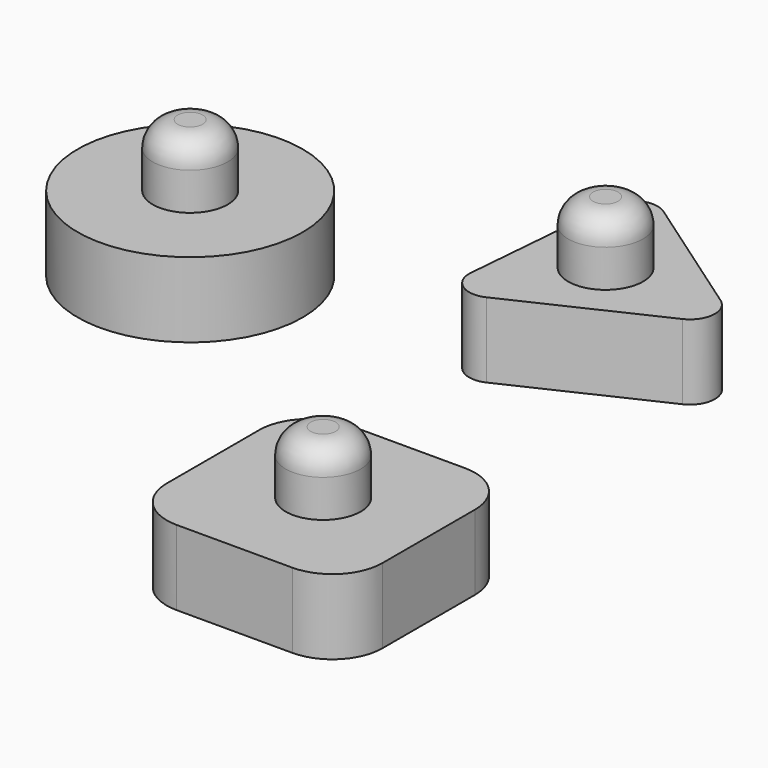
from build123d import *

# Parameters (mm, degrees)
F0_R      = 22.86
F0_R_2    = 7.62
F1_DEPTH  = 15.24
F2_R      = 7.62
F3_DEPTH  = 15.24
F4_R      = 7.62
F5_DEPTH  = 15.24
F6_DEPTH  = 27.94
F7_R      = 5.08
F8_DEPTH  = 27.94
F9_R      = 5.08
F10_DEPTH = 27.94
F11_R     = 5.08


with BuildPart() as f1:
    # F0 (on Top) → F1 (new body)
    with BuildSketch(Plane.XY):
        with Locations((-45.18804, 36.230944)):
            Circle(F0_R)
        with Locations((-45.18804, 36.230944)):
            Circle(F0_R_2, mode=Mode.SUBTRACT)
    extrude(amount=F1_DEPTH)

    # F0 (on Top) → F8 (join)
    with BuildSketch(Plane.XY):
        with Locations((-45.18804, 36.230944)):
            Circle(F0_R_2)
    extrude(amount=F8_DEPTH)

    # F9
    f9_edges = [f1.edges().sort_by_distance(p)[0] for p in [
        (-52.80804, 36.230944, 27.94),
    ]]
    fillet(f9_edges, radius=F9_R)


with BuildPart() as f3:
    # F2 (on Top) → F3 (new body)
    with BuildSketch(Plane.XY):
        with BuildLine():
            Line((48.379748, -10.958963), (24.884748, -10.958963))
            ThreePointArc((24.884748, -10.958963), (17.700543, -13.934758), (14.724748, -21.118963))
            Line((14.724748, -21.118963), (14.724748, -44.613963))
            ThreePointArc((14.724748, -44.613963), (17.700543, -51.798168), (24.884748, -54.773963))
            Line((24.884748, -54.773963), (48.379748, -54.773963))
            ThreePointArc((48.379748, -54.773963), (55.563953, -51.798168), (58.539748, -44.613963))
            Line((58.539748, -44.613963), (58.539748, -21.118963))
            ThreePointArc((58.539748, -21.118963), (55.563953, -13.934758), (48.379748, -10.958963))
        make_face()
        with Locations((37.189316, -32.980077)):
            Circle(F2_R, mode=Mode.SUBTRACT)
    extrude(amount=F3_DEPTH)

    # F2 (on Top) → F6 (join)
    with BuildSketch(Plane.XY):
        with Locations((37.189316, -32.980077)):
            Circle(F2_R)
    extrude(amount=F6_DEPTH)

    # F7
    f7_edges = [f3.edges().sort_by_distance(p)[0] for p in [
        (29.569316, -32.980077, 27.94),
    ]]
    fillet(f7_edges, radius=F7_R)


with BuildPart() as f5:
    # F4 (on Top) → F5 (new body)
    with BuildSketch(Plane.XY):
        with BuildLine():
            Line((14.431024, 36.999955), (43.330593, 50.582694))
            ThreePointArc((43.330593, 50.582694), (46.231752, 54.752787), (44.070925, 59.350311))
            Line((44.070925, 59.350311), (17.858143, 77.586702))
            ThreePointArc((17.858143, 77.586702), (12.796157, 78.014132), (9.894998, 73.844039))
            Line((9.894998, 73.844039), (7.208211, 42.024909))
            ThreePointArc((7.208211, 42.024909), (9.369038, 37.427385), (14.431024, 36.999955))
        make_face()
        with Locations((22.798982, 56.731435)):
            Circle(F4_R, mode=Mode.SUBTRACT)
    extrude(amount=F5_DEPTH)

    # F4 (on Top) → F10 (join)
    with BuildSketch(Plane.XY):
        with Locations((22.798982, 56.731435)):
            Circle(F4_R)
    extrude(amount=F10_DEPTH)

    # F11
    f11_edges = [f5.edges().sort_by_distance(p)[0] for p in [
        (15.178982, 56.731435, 27.94),
    ]]
    fillet(f11_edges, radius=F11_R)


solid = Compound([f1.part, f3.part, f5.part])
